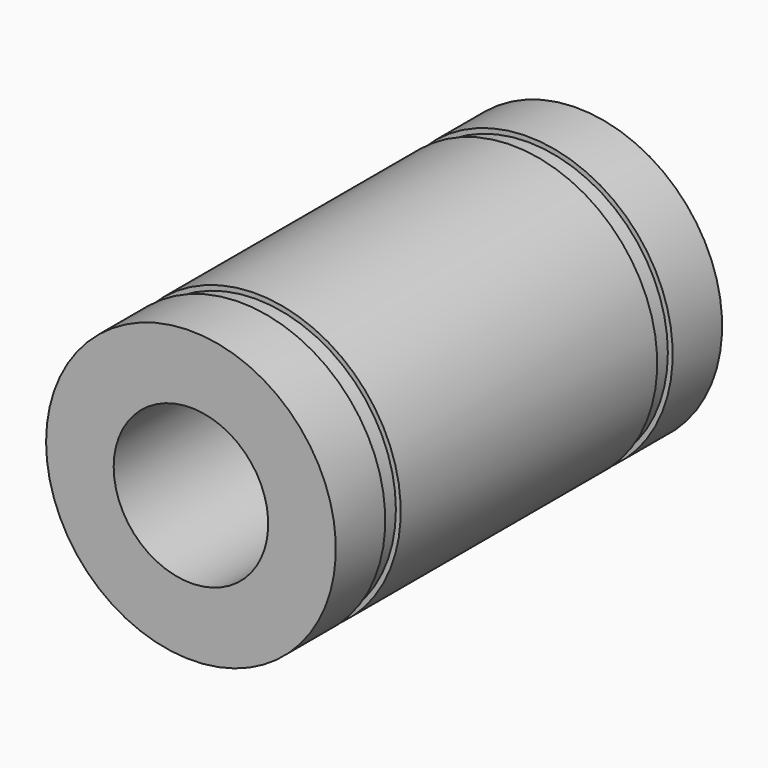
from build123d import *


with BuildPart() as part:
    # Sketch → Revolution (revolve)
    with BuildSketch(Plane.XY):
        Polygon((-7.5, 25), (-4, 25), (-4, 0), (-7.5, 0), (-7.5, 3.2), (-7.25, 3.2), (-7.25, 4.2), (-7.5, 4.2), (-7.5, 20.8), (-7.25, 20.8), (-7.25, 21.8), (-7.5, 21.8), align=None)
    revolve(axis=Axis((0, 0, 0), (0, 1, 0)))


solid = part.part
